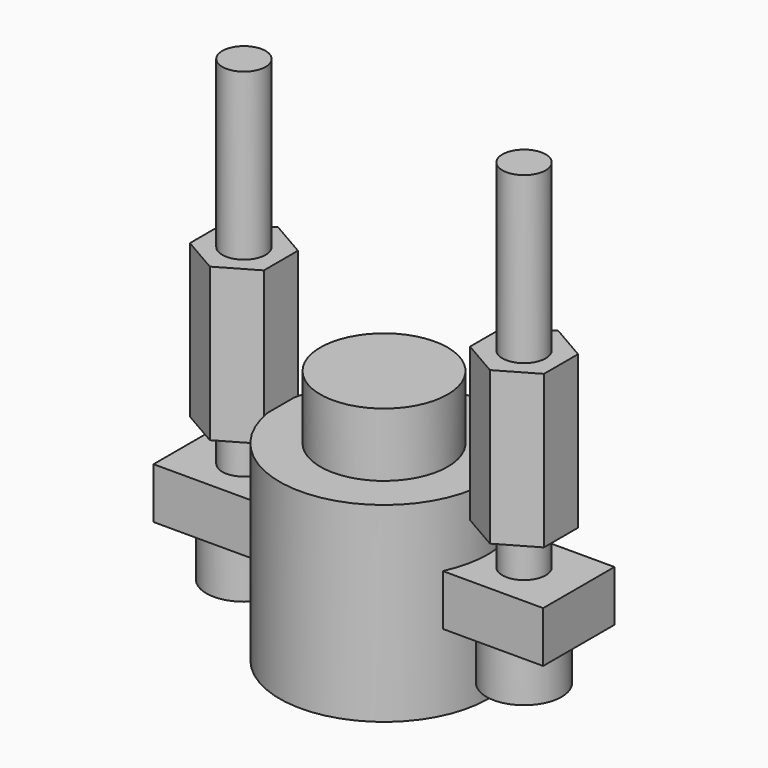
from build123d import *

# Parameters (mm, degrees)
PRISM_DEPTH              = 12
CLONE139_PLACEMENT_ANGLE = 30
BOX251_W                 = 30.6
BOX251_H                 = 7
BOX251_DEPTH             = 4
CYLINDER_R               = 2.95
CYLINDER_DEPTH           = 7
CYLINDER001_R            = 1.7
CYLINDER001_DEPTH        = 30
CYLINDER1015_R           = 5
CYLINDER1015_DEPTH       = 10
CYLINDER1003_R           = 8.2
CYLINDER1003_DEPTH       = 15
CLONE140_PLACEMENT_ANGLE = 30


with BuildPart() as m3nut:
    # Prism → Prism (new body)
    with BuildSketch(Plane.XY):
        Polygon((3.35, 0), (1.675, 2.901185), (-1.675, 2.901185), (-3.35, 0), (-1.675, -2.901185), (1.675, -2.901185), align=None)
    extrude(amount=PRISM_DEPTH)


with BuildPart() as clone_of_m3nut005:
    # Clone139 base: copy of M3Nut
    add(m3nut.part)


with BuildPart() as clone_of_m3nut005_1:
    # Clone139 placement: moved
    add(clone_of_m3nut005.part.moved(Location((11, 0, 7))).rotate(Axis((11, 0, 7), (0, 0, 1)), CLONE139_PLACEMENT_ANGLE))


with BuildPart() as cube015:
    # Box251 → Box251 (new body)
    with BuildSketch(Plane(origin=(-15.3, -3.5, 0), x_dir=(1, 0, 0), z_dir=(0, 0, 1))):
        with Locations((15.3, 3.5)):
            Rectangle(BOX251_W, BOX251_H)
    extrude(amount=BOX251_DEPTH)


with BuildPart() as m3bolthead:
    # Cylinder → Cylinder (new body)
    with BuildSketch(Plane.XY):
        Circle(CYLINDER_R)
    extrude(amount=CYLINDER_DEPTH)


with BuildPart() as m3bolt:
    # Cylinder001 → Cylinder001 (new body)
    with BuildSketch(Plane.XY.offset(6)):
        Circle(CYLINDER001_R)
    extrude(amount=CYLINDER001_DEPTH)

    # Fusion: union M3BoltHead
    add(m3bolthead.part)


with BuildPart() as clone_of_m3bolt039:
    # Clone137 base: copy of M3Bolt
    add(m3bolt.part)


with BuildPart() as clone_of_m3bolt039_1:
    # Clone137 placement: moved
    add(clone_of_m3bolt039.part.moved(Location((11, 0, -4))))


with BuildPart() as clone_of_m3bolt040:
    # Clone138 base: copy of M3Bolt
    add(m3bolt.part)


with BuildPart() as clone_of_m3bolt040_1:
    # Clone138 placement: moved
    add(clone_of_m3bolt040.part.moved(Location((-11, 0, -4))))


with BuildPart() as cylinder021:
    # Cylinder1015 → Cylinder1015 (new body)
    with BuildSketch(Plane.XY.offset(4)):
        Circle(CYLINDER1015_R)
    extrude(amount=CYLINDER1015_DEPTH)


with BuildPart() as obj1:
    # Cylinder1003 → Cylinder1003 (new body)
    with BuildSketch(Plane.XY):
        Circle(CYLINDER1003_R)
    extrude(amount=CYLINDER1003_DEPTH)


with BuildPart() as obj1_1:
    # Clone136 placement: moved
    add(obj1.part.moved(Location((0, 0, -6))))


with BuildPart() as obj2:
    # Clone140 base: copy of M3Nut
    add(m3nut.part)


with BuildPart() as obj2_1:
    # Clone140 placement: moved
    add(obj2.part.moved(Location((-11, 0, 7))).rotate(Axis((-11, 0, 7), (0, 0, 1)), CLONE140_PLACEMENT_ANGLE))

    # Fusion062: union Clone of M3Nut005, Cube015, Clone of M3Bolt039, Clone of M3Bolt040, Cylinder021, obj1
    add(clone_of_m3nut005_1.part)
    add(cube015.part)
    add(clone_of_m3bolt039_1.part)
    add(clone_of_m3bolt040_1.part)
    add(cylinder021.part)
    add(obj1_1.part)


solid = obj2_1.part
